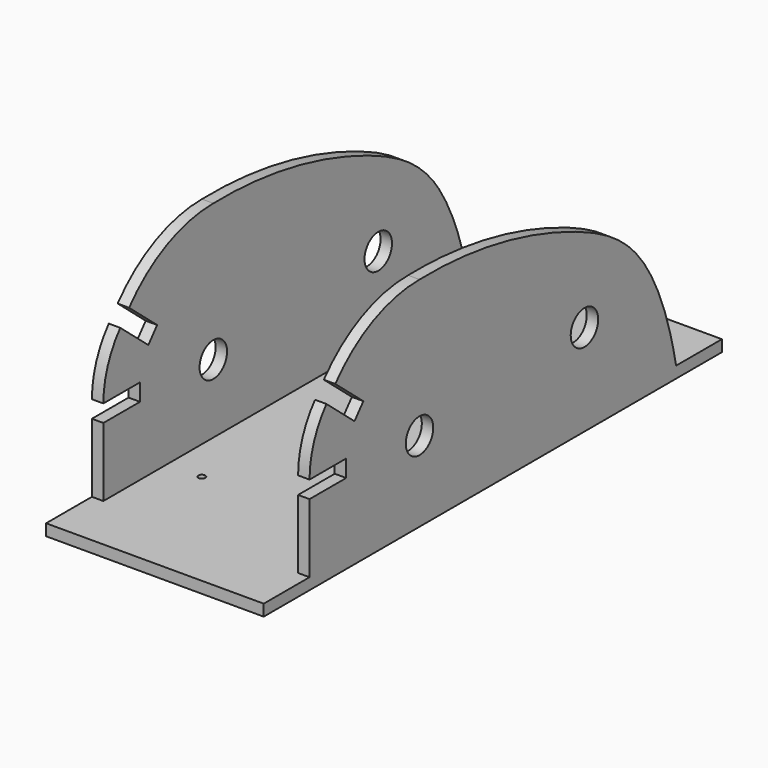
from build123d import *

# Parameters (mm, degrees)
F1_DEPTH      = 95
F3_DEPTH      = 150
F3_DEPTH_BACK = 150
F5_DEPTH      = 25


with BuildPart() as f1:
    # F0 (on Right) → F1 (new body)
    with BuildSketch(Plane.YZ):
        Polygon((-87.993201702, 5), (-87.993201702, 0), (162.006798298, 0), (162.006798298, 5), (137.006798298, 5), (87.006798298, 5), (-2.993201702, 5), (-62.993201702, 5), align=None)
        with BuildLine():
            Line((-62.993201702, 35), (-62.993201702, 5))
            Line((-62.993201702, 5), (-2.993201702, 5))
            Line((-2.993201702, 5), (-2.993201702, 27.5))
            ThreePointArc((-2.993201702, 27.5), (-10.493201702, 35), (-2.993201702, 42.5))
            Line((-2.993201702, 42.5), (-2.993201702, 95))
            ThreePointArc((-2.993201702, 95), (-28.3502974065, 89.3784672222), (-48.9558682892, 73.5672565812))
            Line((-48.9558682892, 73.5672565812), (-33.6349794268, 60.7115043875))
            Line((-33.6349794268, 60.7115043875), (-38.4558864994, 54.9661710641))
            Line((-38.4558864994, 54.9661710641), (-53.7767753618, 67.8219232578))
            ThreePointArc((-53.7767753618, 67.8219232578), (-60.6174576688, 55.9735139436), (-62.993201702, 42.5))
            Line((-62.993201702, 42.5), (-42.993201702, 42.5))
            Line((-42.993201702, 42.5), (-42.993201702, 35))
            Line((-42.993201702, 35), (-62.993201702, 35))
        make_face()
        with BuildLine():
            Line((87.006798298, 5), (137.006798298, 5))
            add(Edge.make_bspline(
                [(-2.993201702, 95), (30.6227877736, 95.7361534238), (79.8862645285, 82.5462463817), (121.0056993256, 58.60780489), (133.2323859183, 24.3846146975), (137.006798298, 5)],
                knots=[0, 0, 0, 0, 0.3988693097, 0.6832428088, 1, 1, 1, 1], degree=3))
            Line((-2.993201702, 95), (-2.993201702, 42.5))
            ThreePointArc((-2.993201702, 42.5), (2.3100991569, 40.3033008589), (4.506798298, 35))
            ThreePointArc((4.506798298, 35), (2.3100991569, 29.6966991411), (-2.993201702, 27.5))
            Line((-2.993201702, 27.5), (-2.993201702, 5))
            Line((-2.993201702, 5), (87.006798298, 5))
        make_face()
        with BuildLine():
            ThreePointArc((94.506798298, 40), (92.3100991569, 34.6966991411), (87.006798298, 32.5))
            ThreePointArc((87.006798298, 32.5), (81.7034974391, 45.3033008589), (94.506798298, 40))
        make_face(mode=Mode.SUBTRACT)
    extrude(amount=F1_DEPTH)

    # F2 (on Front) → F3 (cut, two sides)
    with BuildSketch(Plane.XZ) as f3_sk:
        Polygon((5, 5), (90, 5), (90, 95), (90, 99.046766758), (5, 99.046766758), (5, 95), align=None)
    extrude(amount=-F3_DEPTH, mode=Mode.SUBTRACT)
    extrude(f3_sk.sketch, amount=F3_DEPTH_BACK, mode=Mode.SUBTRACT)

    # F4 (on face) → F5 (cut)
    with BuildSketch(Plane(origin=(0, 0, 0), x_dir=(1, 0, 0), z_dir=(0, 0, -1))):
        with BuildLine():
            Line((20, 26.493201702), (20, 27.993201702))
            Line((20, 27.993201702), (21.5, 27.993201702))
            ThreePointArc((21.5, 27.993201702), (18.9393398282, 29.0538618738), (20, 26.493201702))
        make_face()
        with BuildLine():
            Line((21.5, 27.993201702), (20, 27.993201702))
            Line((20, 27.993201702), (20, 26.493201702))
            ThreePointArc((20, 26.493201702), (21.0606601718, 26.9325415303), (21.5, 27.993201702))
        make_face()
        with BuildLine():
            Line((75, 27.993201702), (73.5, 27.993201702))
            ThreePointArc((73.5, 27.993201702), (73.9393398282, 26.9325415303), (75, 26.493201702))
            Line((75, 26.493201702), (75, 27.993201702))
        make_face()
        with BuildLine():
            ThreePointArc((76.5, 27.993201702), (75, 29.493201702), (73.5, 27.993201702))
            Line((73.5, 27.993201702), (75, 27.993201702))
            Line((75, 27.993201702), (75, 26.493201702))
            ThreePointArc((75, 26.493201702), (76.0606601718, 26.9325415303), (76.5, 27.993201702))
        make_face()
        with BuildLine():
            ThreePointArc((21.5, -102.006798298), (21.0606601718, -100.9461381262), (20, -100.506798298))
            Line((20, -100.506798298), (20, -102.006798298))
            Line((20, -102.006798298), (21.5, -102.006798298))
        make_face()
        with BuildLine():
            Line((20, -102.006798298), (20, -100.506798298))
            ThreePointArc((20, -100.506798298), (18.9393398282, -103.0674584697), (21.5, -102.006798298))
            Line((21.5, -102.006798298), (20, -102.006798298))
        make_face()
        with BuildLine():
            Line((75, -102.006798298), (75, -100.506798298))
            ThreePointArc((75, -100.506798298), (73.9393398282, -100.9461381262), (73.5, -102.006798298))
            Line((73.5, -102.006798298), (75, -102.006798298))
        make_face()
        with BuildLine():
            ThreePointArc((76.5, -102.006798298), (76.0606601718, -100.9461381262), (75, -100.506798298))
            Line((75, -100.506798298), (75, -102.006798298))
            Line((75, -102.006798298), (73.5, -102.006798298))
            ThreePointArc((73.5, -102.006798298), (75, -103.506798298), (76.5, -102.006798298))
        make_face()
    extrude(amount=-F5_DEPTH, mode=Mode.SUBTRACT)


solid = f1.part
